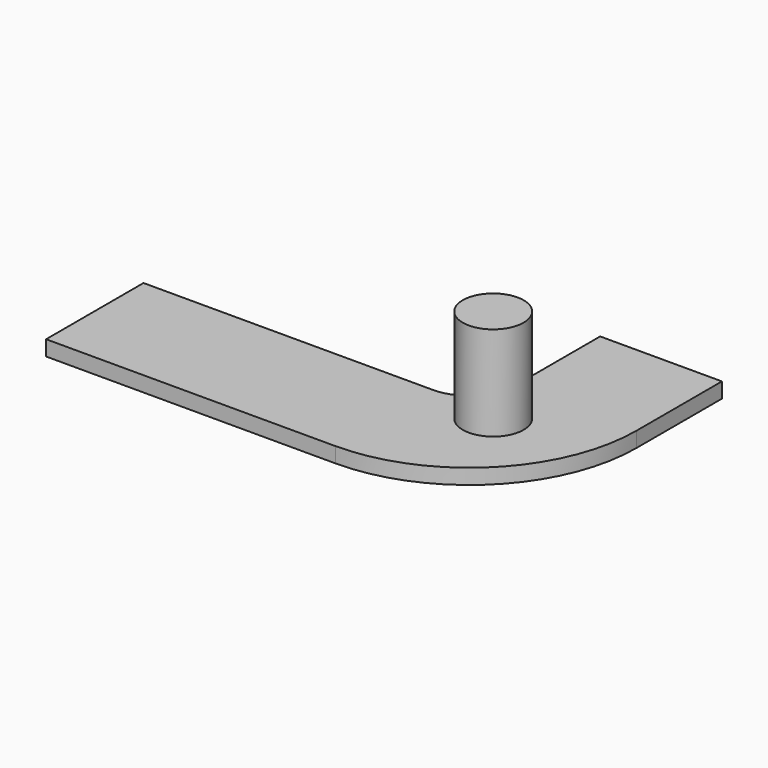
from build123d import *

# Parameters (mm, degrees)
F0_R     = 6.35
F1_DEPTH = 22.86
F2_DEPTH = 3.175
F3_ANGLE = 180


with BuildPart() as f1:
    # F0 (on Top) → F1 (new body)
    with BuildSketch(Plane.XY):
        with Locations((-4.509694, 23.622)):
            Circle(F0_R)
    extrude(amount=-F1_DEPTH)

    # F0 (on Top) → F2 (join)
    with BuildSketch(Plane.XY):
        with BuildLine():
            Line((0, 57.15), (-25.4, 57.15))
            Line((-25.4, 57.15), (-25.4, 34.925))
            ThreePointArc((-25.4, 34.925), (-15.170704, 10.229296), (9.525, 0))
            Line((9.525, 0), (19.05, 0))
            Line((19.05, 0), (69.85, 0))
            Line((69.85, 0), (69.85, 25.4))
            Line((69.85, 25.4), (19.05, 25.4))
            Line((19.05, 25.4), (9.525, 25.4))
            ThreePointArc((9.525, 25.4), (2.789808, 28.189808), (0, 34.925))
            Line((0, 34.925), (0, 57.15))
        make_face()
        with Locations((-4.509694, 23.622)):
            Circle(F0_R, mode=Mode.SUBTRACT)
    extrude(amount=-F2_DEPTH)


with BuildPart() as f1_1:
    # F3: moved
    add(f1.part.rotate(Axis((0, 46.0375, -3.175), (0, 1, 0)), F3_ANGLE))


solid = f1_1.part
